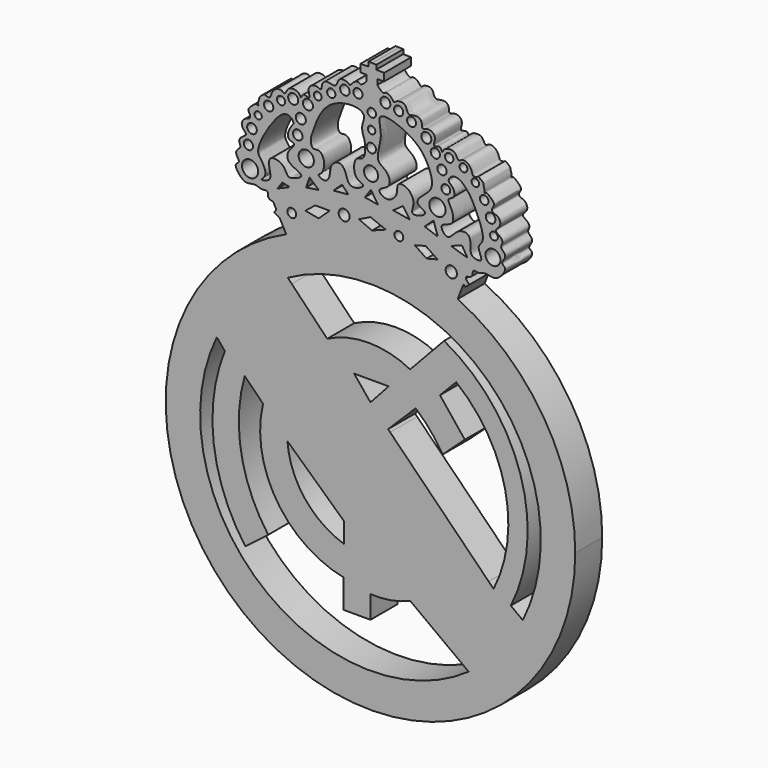
from build123d import *

# Parameters (mm, degrees)
F0_R     = 1.0683758696
F0_R_2   = 1.3224480768
F0_R_3   = 1.061195042
F0_R_4   = 1.3557211903
F0_R_5   = 1.9575942529
F0_R_6   = 1.107680664
F0_R_7   = 1.1599022783
F0_R_8   = 0.8679173579
F0_R_9   = 1.1268167876
F0_R_10  = 1.835311763
F0_R_11  = 1.1527903374
F0_R_12  = 1.2152979792
F0_R_13  = 0.9800578717
F0_R_14  = 1.2152997372
F0_R_15  = 1.2098720831
F0_R_16  = 0.9194478927
F0_R_17  = 1.0009302247
F0_R_18  = 1.1470695026
F0_R_19  = 1.0994945961
F0_R_20  = 1.6947146725
F0_R_21  = 1.1139353113
F0_R_22  = 1.9575949623
F0_R_23  = 1.0575460043
F0_R_24  = 1.1136042504
F0_R_25  = 0.8994497727
F0_R_26  = 1.0223036273
F0_R_27  = 1.0821448975
F0_R_28  = 1.2057884323
F0_R_29  = 1.1053048074
F0_R_30  = 1.1136020439
F0_R_31  = 1.2166516272
F0_R_32  = 1.0163055879
F0_R_33  = 0.9406639843
F0_R_34  = 1.8000215525
F0_R_35  = 0.9458968177
F0_R_36  = 1.164695248
F0_R_37  = 1.0339537474
F0_R_38  = 0.9068367551
F1_DEPTH = 8.128


with BuildPart() as f1:
    # F0 (on Front) → F1 (new body)
    with BuildSketch(Plane.XZ):
        with BuildLine():
            ThreePointArc((-20.2957642597, 43.7757468481), (-26.7530704289, -42.6075920216), (49.319722353, -1.1744140647))
            ThreePointArc((49.319722353, -1.1744140647), (41.6413507607, 25.2534674206), (20.9970600799, 43.4524666349))
            ThreePointArc((20.9970600799, 43.4524666349), (0.3861107107, 48.1437968872), (-20.2957642597, 43.7757468481))
        make_face()
        with BuildLine():
            ThreePointArc((-19.9248884828, 34.6796681541), (20.7993700046, 34.1795475269), (41.0184884267, -1.1744140647))
            ThreePointArc((41.0184884267, -1.1744140647), (39.9191785802, -10.607100548), (36.680172818, -19.5341884328))
            ThreePointArc((36.680172818, -19.5341884328), (34.5426007298, -23.2951086205), (32.0208296632, -26.8099920861))
            ThreePointArc((32.0208296632, -26.8099920861), (28.11116415, -31.0454509222), (23.6463884011, -34.6910473741))
            ThreePointArc((23.6463884011, -34.6910473741), (-26.4579316914, -32.5191782754), (-37.0108219701, 16.5093482585))
            ThreePointArc((-37.0108219701, 16.5093482585), (-29.8824181162, 26.9246514062), (-19.9248884828, 34.6796681541))
        make_face(mode=Mode.SUBTRACT)
        with BuildLine():
            ThreePointArc((-20.2957642597, 43.7757468481), (0.3861107107, 48.1437968872), (20.9970600799, 43.4524666349))
            Line((20.9970600799, 43.4524666349), (22.4078925888, 47.0877994707))
            Line((22.4078925888, 47.0877994707), (21.7419918627, 47.9761324823))
            Line((21.7419918627, 47.9761324823), (22.7174321972, 48.7374767771))
            Line((22.7174321972, 48.7374767771), (22.9382957615, 48.4545046309))
            Line((22.9382957615, 48.4545046309), (23.1258919107, 48.9378890417))
            Line((23.1258919107, 48.9378890417), (23.3868695796, 49.6103577316))
            ThreePointArc((23.3868695796, 49.6103577316), (-0.0129053369, 54.7778177099), (-23.4126802534, 49.6103577316))
            Line((-23.4126802534, 49.6103577316), (-22.670956452, 48.2219116608))
            Line((-22.670956452, 48.2219116608), (-22.3344378173, 48.7198755145))
            Line((-22.3344378173, 48.7198755145), (-21.2338831723, 47.9761324823))
            Line((-21.2338831723, 47.9761324823), (-21.8542222565, 46.6930522898))
            Line((-21.8542222565, 46.6930522898), (-20.2957642597, 43.7757468481))
        make_face()
        with Locations((-18.9575776458, 48.7157329917)):
            Circle(F0_R, mode=Mode.SUBTRACT)
        Polygon((-12.4819371849, 49.6610552073), (-15.7055351883, 50.2721779048), (-13.2815465331, 52.1641336381), (-9.8130097613, 52.1641336381), align=None, mode=Mode.SUBTRACT)
        with Locations((-6.3367942348, 52.3875318468)):
            Circle(F0_R_2, mode=Mode.SUBTRACT)
        with Locations((6.8356036209, 52.2115007043)):
            Circle(F0_R_3, mode=Mode.SUBTRACT)
        Polygon((13.5123794898, 49.60616678), (10.6638669968, 51.5121184289), (13.2989436388, 52.2064417601), (16.1520782858, 50.2721779048), align=None, mode=Mode.SUBTRACT)
        with Locations((19.4681342691, 48.7157329917)):
            Circle(F0_R_4, mode=Mode.SUBTRACT)
        Polygon((0.3738308442, 51.2814745307), (-2.7873946819, 52.6461452246), (0, 54.00453517), (3.6851887126, 52.5483526289), align=None, mode=Mode.SUBTRACT)
        Polygon((21.7419918627, 47.9761324823), (22.4078925888, 47.0877994707), (22.9382957615, 48.4545046309), (22.7174321972, 48.7374767771), align=None)
        Polygon((22.9382957615, 48.4545046309), (22.4078925888, 47.0877994707), (22.7706250654, 46.6039026665), (23.7724204733, 47.3858174504), align=None)
        Polygon((-23.1732297689, 47.478672117), (-21.8542222565, 46.6930522898), (-22.670956452, 48.2219116608), align=None)
        Polygon((-22.670956452, 48.2219116608), (-21.8542222565, 46.6930522898), (-21.2338831723, 47.9761324823), (-22.3344378173, 48.7198755145), align=None)
        with BuildLine():
            Line((23.3868695796, 49.6103577316), (23.1258919107, 48.9378890417))
            Line((23.1258919107, 48.9378890417), (23.2789174175, 48.9493995758))
            add(Edge.make_bspline(
                [(23.2789174175, 48.9493995758), (23.8045427052, 49.0629136799), (24.8092339264, 49.279886924), (24.4157559538, 51.0934438207), (26.2183794565, 50.4041142918), (27.6327581722, 51.3754215784), (29.9448005296, 50.3435666943), (31.7201053906, 51.8862627479), (32.9193195444, 53.8813689292), (31.0873186171, 54.4269995532), (33.2300556875, 56.4581653238), (31.070484681, 57.6589677895), (31.8964490255, 58.7152164835), (31.6499698111, 59.9157551046), (29.8073978478, 60.7988407991), (30.6381868366, 61.5661279682), (31.534954791, 62.5865176501), (30.8772266471, 64.3032957872), (29.1064834057, 64.5096965012), (29.3754610269, 65.6996851963), (30.0735607059, 66.360642796), (28.9648355826, 67.5852803425), (27.8109170759, 68.4437559256), (27.7529236519, 68.0695118832), (27.5289528704, 68.1088414973), (27.3592913794, 68.0444086011), (27.5220720265, 68.6286517126), (27.467739765, 68.7731780936), (27.3708493371, 69.177721937), (27.2776295023, 69.3402711501), (27.2070942878, 70.0047466896), (27.0466783339, 70.2233673686), (26.7140514038, 70.5311907911), (26.6226362961, 70.5754774317), (26.3152787444, 70.8061749721), (26.0183897996, 71.0629481176), (25.9673493613, 71.0566225559), (25.954052735, 71.0549746737)],
                knots=[0, 0, 0, 0, 0.0367596378, 0.0702631441, 0.1062364844, 0.1464798319, 0.1927377199, 0.2399274226, 0.2825691585, 0.3144049608, 0.3581342468, 0.3988697507, 0.4301327338, 0.4633110208, 0.5034318719, 0.5306531068, 0.5664882902, 0.6053111821, 0.6430986868, 0.6726782187, 0.7004173063, 0.7394058872, 0.7742007101, 0.7874326809, 0.8014663487, 0.8112183948, 0.8332574528, 0.8473781346, 0.8665336416, 0.8812017072, 0.9059133932, 0.9234188493, 0.9436516777, 0.9539570959, 0.9735307783, 0.9931044607, 1, 1, 1, 1], degree=3))
            Line((25.954052735, 71.0549746737), (25.6888473403, 70.8866474778))
            add(Edge.make_bspline(
                [(25.6888473403, 70.8866474778), (25.6357248773, 70.8637826776), (25.488485549, 70.800408398), (24.5935037854, 70.584130696), (24.4419882006, 71.9007209042), (23.4413899151, 73.2745374456), (21.9472071127, 73.4698679178), (21.1034992874, 72.5028315482), (20.5524212691, 74.5485966135), (18.7920804323, 74.6677849165), (17.608206438, 74.2229125628), (17.2740011335, 72.9810923247), (16.9427117453, 74.8245133954), (14.64239008, 73.4138151801), (16.1913846949, 76.3712800618), (13.7609583187, 77.5255259433), (12.2836642144, 76.3447083169), (12.5622883834, 78.5127327702), (10.931556028, 79.2897816454), (8.7589241786, 78.2654122162), (8.6844883666, 81.0909447062), (6.1587658891, 80.78124473), (5.6770664332, 79.9283311522), (5.0427301349, 81.2373697339), (3.5710222385, 81.8165532977), (3.1183810093, 80.9101475652), (1.7889049763, 82.2960011314), (1.7165623127, 82.6272132552)],
                knots=[0, 0, 0, 0, 0.0164149194, 0.0454971695, 0.0822824054, 0.1278334372, 0.168706337, 0.199897269, 0.2431105971, 0.2876152749, 0.3273043575, 0.3559156791, 0.3909861163, 0.4323984729, 0.4811659561, 0.5317529085, 0.5699959643, 0.6117421148, 0.6556097684, 0.7023397782, 0.7505060509, 0.8001208735, 0.8279708533, 0.8653993579, 0.9068552669, 0.9343437602, 0.9823599488, 0.9823599488, 0.9823599488, 0.9823599488], degree=3))
            add(Edge.make_bspline(
                [(1.7165623127, 82.6272132552), (1.7081865823, 82.6655605226), (1.7101742735, 82.6965338384), (1.7192593637, 82.7224570967)],
                knots=[0.9823599488, 0.9823599488, 0.9823599488, 0.9823599488, 0.9879191947, 0.9879191947, 0.9879191947, 0.9879191947], degree=3))
            Line((1.7192593637, 82.7224570967), (1.7508812065, 83.8391529728))
            Line((1.7508812065, 83.8391529728), (3.2405081183, 83.7969707198))
            Line((3.2405081183, 83.7969707198), (3.2932981266, 85.6612006146))
            Line((3.2932981266, 85.6612006146), (1.3878742446, 85.7151571265))
            Line((1.3878742446, 85.7151571265), (1.417950122, 86.7772586766))
            Line((1.417950122, 86.7772586766), (0.4643072607, 86.8042632937))
            Line((0.4643072607, 86.8042632937), (-0.4897178733, 86.8042632937))
            Line((-0.4897178733, 86.8042632937), (-0.4897178733, 85.7417359948))
            Line((-0.4897178733, 85.7417359948), (-2.3959055543, 85.7417359948))
            Line((-2.3959055543, 85.7417359948), (-2.3959055543, 83.8767588139))
            Line((-2.3959055543, 83.8767588139), (-0.9056815179, 83.8767588139))
            Line((-0.9056815179, 83.8767588139), (-0.9056815179, 82.7596153044))
            add(Edge.make_bspline(
                [(-0.9056815179, 82.6643332839), (-0.8962236866, 82.7024281025), (-0.8973338513, 82.733445271), (-0.9056815179, 82.7596153044)],
                knots=[0.9823599488, 0.9823599488, 0.9823599488, 0.9823599488, 0.9879191947, 0.9879191947, 0.9879191947, 0.9879191947], degree=3))
            add(Edge.make_bspline(
                [(-25.2006892115, 71.6070309281), (-25.1482352449, 71.5826716063), (-25.0028487858, 71.5151549668), (-24.114347589, 71.2736305894), (-23.9256253385, 72.5854044499), (-22.8865407625, 73.9303475946), (-21.3874276505, 74.0833054891), (-20.5714308072, 73.0927746282), (-19.9626662161, 75.1221211627), (-18.1996569965, 75.1914335336), (-17.0288499224, 74.7132287233), (-16.729929472, 73.4624460668), (-16.3465929881, 75.2957510176), (-14.0871242458, 73.8205052005), (-15.5517842427, 76.8206308539), (-13.0896596634, 77.905618633), (-11.6463817039, 76.6834578952), (-11.8635261711, 78.8585003633), (-10.2114521106, 79.5890784003), (-8.0686866044, 78.5036209549), (-7.9143011499, 81.3259142908), (-5.3983570773, 80.9448453576), (-4.9409931911, 80.0786385621), (-4.2698574469, 81.369197108), (-2.782344897, 81.9064904606), (-2.3555417419, 80.987635466), (-0.9873704782, 82.3353016051), (-0.9056815179, 82.6643332839)],
                knots=[0, 0, 0, 0, 0.0164149194, 0.0454971695, 0.0822824054, 0.1278334372, 0.168706337, 0.199897269, 0.2431105971, 0.2876152749, 0.3273043575, 0.3559156791, 0.3909861163, 0.4323984729, 0.4811659561, 0.5317529085, 0.5699959643, 0.6117421148, 0.6556097684, 0.7023397782, 0.7505060509, 0.8001208735, 0.8279708533, 0.8653993579, 0.9068552669, 0.9343437602, 0.9823599488, 0.9823599488, 0.9823599488, 0.9823599488], degree=3))
            Line((-25.2006892115, 71.6070309281), (-25.4610236734, 71.782797575))
            add(Edge.make_bspline(
                [(-23.4126802534, 49.6103577316), (-23.9348817978, 49.7387046905), (-24.9330288042, 49.9840297652), (-24.4883739893, 51.7857221995), (-26.3097873391, 51.1476939075), (-27.6961055154, 52.1586473735), (-30.0364291146, 51.1926505747), (-31.7673550958, 52.7849802237), (-32.9096152935, 54.8132319097), (-31.0629038291, 55.3067873193), (-33.147288177, 57.3977914873), (-30.9545926072, 58.5369840225), (-31.750327837, 59.6161892143), (-31.4699649623, 60.8092699502), (-29.6031347008, 61.6398459904), (-30.4118719811, 62.4303420089), (-31.2793974746, 63.4757067228), (-30.5733377898, 65.1731793159), (-28.7974617009, 65.329374702), (-29.032647747, 66.5265002505), (-29.7117586481, 67.2069534042), (-28.568813218, 68.3997166931), (-27.3910570868, 69.2251854945), (-27.3436802451, 68.849449849), (-27.1186859442, 68.8824239912), (-26.9509162719, 68.813214478), (-27.0970941193, 69.4018311524), (-27.0386926676, 69.5447616945), (-26.9303900528, 69.9464008607), (-26.8326064558, 70.1062462624), (-26.7432908725, 70.7684589817), (-26.5767509237, 70.9824513297), (-26.2355440315, 71.2807360775), (-26.1429119765, 71.3224173784), (-25.8291474611, 71.5443224226), (-25.5251092623, 71.7925889478), (-25.4742683269, 71.784821171), (-25.4610236734, 71.782797575)],
                knots=[0, 0, 0, 0, 0.0367596378, 0.0702631441, 0.1062364844, 0.1464798319, 0.1927377199, 0.2399274226, 0.2825691585, 0.3144049608, 0.3581342468, 0.3988697507, 0.4301327338, 0.4633110208, 0.5034318719, 0.5306531068, 0.5664882902, 0.6053111821, 0.6430986868, 0.6726782187, 0.7004173063, 0.7394058872, 0.7742007101, 0.7874326809, 0.8014663487, 0.8112183948, 0.8332574528, 0.8473781346, 0.8665336416, 0.8812017072, 0.9059133932, 0.9234188493, 0.9436516777, 0.9539570959, 0.9735307783, 0.9931044607, 1, 1, 1, 1], degree=3))
            ThreePointArc((-23.4126802534, 49.6103577316), (-0.0129053369, 54.7778177099), (23.3868695796, 49.6103577316))
        make_face()
        with Locations((-28.9970748127, 54.8375062644)):
            Circle(F0_R_5, mode=Mode.SUBTRACT)
        with Locations((-29.3985512108, 59.7699061036)):
            Circle(F0_R_6, mode=Mode.SUBTRACT)
        with Locations((-28.538249433, 63.4978860617)):
            Circle(F0_R_7, mode=Mode.SUBTRACT)
        with Locations((-27.0470567048, 66.7670294642)):
            Circle(F0_R_8, mode=Mode.SUBTRACT)
        Polygon((-19.4668657923, 54.0335979708), (-22.4014241248, 52.772782743), (-21.2278922101, 54.4457218718), align=None, mode=Mode.SUBTRACT)
        Polygon((-12.4819371849, 55.6978099048), (-15.5190080404, 55.2389807999), (-14.6677671535, 57.6475750897), align=None, mode=Mode.SUBTRACT)
        with BuildLine():
            add(Edge.make_bspline(
                [(-26.1867530644, 53.461022675), (-26.0700255164, 53.3139917769), (-23.450353297, 53.7440990357), (-24.6338912814, 56.7915139748), (-24.3458629055, 59.3469961682), (-20.6913970967, 58.5058255609), (-20.1354595251, 55.8980351253), (-18.4809015446, 56.1366282478), (-15.2040332419, 57.5913001298), (-20.4891966489, 58.8929541214), (-19.8648772056, 61.563495531), (-19.1015718947, 62.2838680145), (-17.847118071, 63.7502390895), (-20.6063097548, 63.9739312922), (-19.1913242191, 67.1968144045), (-18.1494070597, 67.9402499803), (-20.3420195688, 70.3132372041), (-24.3424117129, 65.8824861529), (-27.9150043781, 59.0946157381), (-25.9700124435, 57.4134072109), (-24.7668733819, 54.4427449848), (-26.2813682359, 53.5802006573), (-26.1867530644, 53.461022675)],
                knots=[0, 0, 0, 0, 0.0449166117, 0.1000070802, 0.1460353523, 0.2012629416, 0.2503061371, 0.2904357584, 0.3376925491, 0.3997258926, 0.4469826999, 0.483390514, 0.5198578353, 0.5610980195, 0.6159110408, 0.6504277406, 0.695397194, 0.7709643388, 0.8598418568, 0.9083645914, 0.9635922026, 1, 1, 1, 1], degree=3))
        make_face(mode=Mode.SUBTRACT)
        with Locations((-24.523505941, 69.5773512125)):
            Circle(F0_R_9, mode=Mode.SUBTRACT)
        with Locations((-15.4616553336, 61.4331588149)):
            Circle(F0_R_10, mode=Mode.SUBTRACT)
        with Locations((-17.5263788551, 65.7346695662)):
            Circle(F0_R_11, mode=Mode.SUBTRACT)
        with Locations((-16.7807843536, 69.4052875042)):
            Circle(F0_R_12, mode=Mode.SUBTRACT)
        Polygon((-5.3327149004, 57.0591899426), (-8.9233582839, 56.7301735282), (-6.8627531431, 58.6779000672), align=None, mode=Mode.SUBTRACT)
        with BuildLine():
            add(Edge.make_bspline(
                [(-12.5366291031, 58.9096024632), (-12.4879345928, 58.6703611028), (-10.678649533, 57.5288357153), (-9.6080186367, 59.7330639129), (-9.8117857952, 61.9738597997), (-7.614133384, 63.5355362792), (-5.9664267909, 62.0246407743), (-5.6297828622, 59.6143133946), (-3.9815932773, 58.5922808801), (-0.7739082198, 60.2181353241), (-3.5150874648, 60.8551526609), (-4.123914838, 63.0680378944), (-3.6573906818, 65.7108582279), (-1.6259035767, 65.5147551551), (-1.1797141411, 67.6774064565), (-1.358603092, 69.9513858441), (-1.9630170989, 71.0746491408), (-2.1277777453, 73.1129972145), (-1.1337764742, 74.8618639336), (-2.9473521069, 76.7400248826), (-10.8308748764, 75.7390551956), (-13.6795370679, 68.4833234803), (-14.6394920402, 65.5014217987), (-13.9058309949, 63.6762809321), (-12.0185898686, 64.5542744621), (-10.7013162172, 61.6460691508), (-11.7826275258, 59.1472629563), (-12.5647586154, 59.0478057787), (-12.5366291031, 58.9096024632)],
                knots=[0, 0, 0, 0, 0.0341118954, 0.069801361, 0.1091195807, 0.1465369056, 0.1814554513, 0.2212845885, 0.2553964715, 0.2951538114, 0.3281378862, 0.3675117868, 0.4067054378, 0.4382538691, 0.4739930011, 0.5134592322, 0.5427773319, 0.5791202723, 0.6137065342, 0.6492625205, 0.7179771774, 0.7889852302, 0.8349211538, 0.8652615202, 0.8964310585, 0.9385187149, 0.9802944732, 1, 1, 1, 1], degree=3))
        make_face(mode=Mode.SUBTRACT)
        with Locations((-21.5411223471, 71.6994330287)):
            Circle(F0_R_13, mode=Mode.SUBTRACT)
        with Locations((-18.6160970479, 73.0185583234)):
            Circle(F0_R_14, mode=Mode.SUBTRACT)
        with Locations((-15.0601807982, 72.9612037539)):
            Circle(F0_R_15, mode=Mode.SUBTRACT)
        with Locations((-12.7086890861, 75.542114675)):
            Circle(F0_R_16, mode=Mode.SUBTRACT)
        with Locations((-9.4395400956, 77.2084668279)):
            Circle(F0_R_17, mode=Mode.SUBTRACT)
        with Locations((-6.1703915708, 78.9259672165)):
            Circle(F0_R_18, mode=Mode.SUBTRACT)
        with Locations((-3.0159503222, 79.2700871825)):
            Circle(F0_R_19, mode=Mode.SUBTRACT)
        Polygon((1.8435589736, 57.2302155197), (-1.3359672157, 57.7711500227), (0.0825057295, 59.8329288324), align=None, mode=Mode.SUBTRACT)
        Polygon((9.5174485863, 56.543322415), (5.4631428793, 57.2302155197), (7.8302603215, 58.9145086706), align=None, mode=Mode.SUBTRACT)
        with Locations((0.1311860583, 63.2718187314)):
            Circle(F0_R_20, mode=Mode.SUBTRACT)
        with Locations((0.2082537934, 68.7160600219)):
            Circle(F0_R_21, mode=Mode.SUBTRACT)
        with BuildLine():
            add(Edge.make_bspline(
                [(2.1458626725, 60.458149761), (2.0069217344, 59.9643896494), (3.912279356, 58.3548488245), (6.8159805893, 60.5468467436), (6.0779595585, 63.5462360116), (8.9696849499, 63.4285025477), (10.970833157, 60.7163015876), (9.3969122788, 57.6750737434), (11.9701936263, 58.0511437621), (14.0742286697, 59.3702320818), (10.4470448131, 60.4212908781), (12.3666828393, 62.6028833357), (14.0576158987, 63.7846044241), (15.3568584789, 65.9655227598), (13.3475502659, 71.2471391331), (9.8814028997, 74.4469272708), (4.0959791229, 76.8148254346), (1.516029336, 75.9866641158), (3.2634523607, 71.9842813483), (0.7309991931, 66.2742838232), (4.2190026267, 65.2907374758), (5.2531009999, 61.5325627456), (2.3034527186, 61.0181839728), (2.1458626725, 60.458149761)],
                knots=[0, 0, 0, 0, 0.0406946255, 0.089441357, 0.132603126, 0.1720225356, 0.221739254, 0.2651294075, 0.3033811867, 0.3389350037, 0.381264122, 0.4211935774, 0.4633842826, 0.5051012599, 0.5691684111, 0.632735268, 0.7022351323, 0.7393145408, 0.7938988414, 0.8593203877, 0.9062083614, 0.9538432085, 1, 1, 1, 1], degree=3))
        make_face(mode=Mode.SUBTRACT)
        Polygon((13.3838821203, 56.1376996338), (13.0652310327, 56.2742650509), (15.2047416195, 58.2316890359), (16.2062142044, 55.1362261176), align=None, mode=Mode.SUBTRACT)
        Polygon((23.3698040247, 52.9588982463), (19.3739142269, 54.2049258947), (22.0378413796, 55.1501922309), align=None, mode=Mode.SUBTRACT)
        with Locations((16.1401107907, 61.318449676)):
            Circle(F0_R_22, mode=Mode.SUBTRACT)
        with Locations((18.1474834681, 65.7920241356)):
            Circle(F0_R_23, mode=Mode.SUBTRACT)
        with Locations((17.2298271209, 69.6347057819)):
            Circle(F0_R_24, mode=Mode.SUBTRACT)
        with BuildLine():
            add(Edge.make_bspline(
                [(19.9827942997, 69.1185221076), (19.3458417405, 68.9338103413), (18.2986207687, 67.7038439143), (20.0052096118, 66.973881324), (20.5630692143, 64.5397284052), (18.2104500427, 64.067255816), (19.7116020239, 62.1661450712), (20.4645072662, 58.4005508549), (16.0805711411, 58.4099865587), (18.6653657248, 54.5980982009), (20.6506912423, 58.3236523287), (24.3588086782, 58.3898419463), (23.9720968949, 54.7816562755), (24.3880884021, 53.3826557569), (27.6379801048, 53.0265163656), (25.3098901899, 56.2728262774), (27.8936128595, 57.6203167882), (25.6304850903, 63.569360142), (23.1483218413, 68.0899994246), (20.8068853511, 69.3575027216), (19.9827942997, 69.1185221076)],
                knots=[0, 0, 0, 0, 0.0457780123, 0.0876202368, 0.136836207, 0.1799734193, 0.2281238383, 0.2898227713, 0.3471562525, 0.3999028796, 0.4625431353, 0.5194837961, 0.5796741066, 0.6213580581, 0.6694963296, 0.7246522576, 0.7740785297, 0.8576854396, 0.9407722761, 1, 1, 1, 1], degree=3))
        make_face(mode=Mode.SUBTRACT)
        with Locations((0.2626737017, 72.5604069608)):
            Circle(F0_R_25, mode=Mode.SUBTRACT)
        with Locations((0.3146240277, 76.2302969496)):
            Circle(F0_R_26, mode=Mode.SUBTRACT)
        with Locations((9.8885819316, 77.4347782135)):
            Circle(F0_R_27, mode=Mode.SUBTRACT)
        with Locations((3.5796996672, 79.4421508908)):
            Circle(F0_R_28, mode=Mode.SUBTRACT)
        with Locations((6.7914938554, 78.7539109588)):
            Circle(F0_R_29, mode=Mode.SUBTRACT)
        with Locations((15.623928979, 72.6170837879)):
            Circle(F0_R_30, mode=Mode.SUBTRACT)
        with Locations((13.44449725, 75.197994709)):
            Circle(F0_R_31, mode=Mode.SUBTRACT)
        with Locations((18.9504306763, 72.7317929268)):
            Circle(F0_R_32, mode=Mode.SUBTRACT)
        with Locations((22.3916396499, 71.7567801476)):
            Circle(F0_R_33, mode=Mode.SUBTRACT)
        with Locations((29.5034702867, 55.0669208169)):
            Circle(F0_R_34, mode=Mode.SUBTRACT)
        with Locations((29.7328848392, 59.65520069)):
            Circle(F0_R_35, mode=Mode.SUBTRACT)
        with Locations((28.9299357682, 63.2111132145)):
            Circle(F0_R_36, mode=Mode.SUBTRACT)
        with Locations((27.3813921958, 66.5376186371)):
            Circle(F0_R_37, mode=Mode.SUBTRACT)
        with Locations((25.2593141049, 69.5199966431)):
            Circle(F0_R_38, mode=Mode.SUBTRACT)
        with BuildLine():
            Line((-0.9056815179, 82.7596153044), (-0.9056815179, 82.6643332839))
            add(Edge.make_bspline(
                [(-0.9056815179, 82.6643332839), (-0.8962236866, 82.7024281025), (-0.8973338513, 82.733445271), (-0.9056815179, 82.7596153044)],
                knots=[0.9823599488, 0.9823599488, 0.9823599488, 0.9823599488, 0.9879191947, 0.9879191947, 0.9879191947, 0.9879191947], degree=3))
        make_face()
        with BuildLine():
            add(Edge.make_bspline(
                [(1.7165623127, 82.6272132552), (1.7081865823, 82.6655605226), (1.7101742735, 82.6965338384), (1.7192593637, 82.7224570967)],
                knots=[0.9823599488, 0.9823599488, 0.9823599488, 0.9823599488, 0.9879191947, 0.9879191947, 0.9879191947, 0.9879191947], degree=3))
            Line((1.7165623127, 82.6272132552), (1.7192593637, 82.7224570967))
        make_face()
        with BuildLine():
            ThreePointArc((23.6463884011, -34.6910473741), (28.11116415, -31.0454509222), (32.0208296632, -26.8099920861))
            Line((32.0208296632, -26.8099920861), (30.599538351, -25.4685488352))
            Line((30.599538351, -25.4685488352), (30.0946310163, -24.0084268153))
            Line((30.0946310163, -24.0084268153), (26.394451037, -20.3822515905))
            ThreePointArc((26.394451037, -20.3822515905), (28.1424790475, -17.8611296107), (29.6499365193, -15.1891958665))
            Line((29.6499365193, -15.1891958665), (28.4521410676, -13.9818932609))
            Line((28.4521410676, -13.9818932609), (4.7338204458, 9.9246846512))
            Line((4.7338204458, 9.9246846512), (4.2433136952, 10.4190846569))
            Line((4.2433136952, 10.4190846569), (0, 6.2091858126))
            Line((0, 6.2091858126), (-11.4871617407, 17.7875235677))
            ThreePointArc((-11.4871617407, 17.7875235677), (-18.1134370307, 10.0276628712), (-20.002600758, 0))
            Line((-20.002600758, 0), (-6.348460447, -12.5576164573))
            Line((-6.348460447, -12.5576164573), (-6.348460447, 0.9403915028))
            Line((-6.348460447, 0.9403915028), (8.1569859758, 0.9403915028))
            Line((8.1569859758, 0.9403915028), (8.1569859758, -3.6128875799))
            Line((8.1569859758, -3.6128875799), (0, -3.6128875799))
            Line((0, -3.6128875799), (0, -8.8816815987))
            Line((0, -8.8816815987), (7.8967986628, -8.8816815987))
            Line((7.8967986628, -8.8816815987), (7.8967986628, -13.1747731939))
            Line((7.8967986628, -13.1747731939), (0, -13.1747731939))
            Line((0, -13.1747731939), (0, -19.4192696363))
            ThreePointArc((0, -19.4192696363), (8.5543119041, -17.8413652211), (15.7674662769, -12.9796331748))
            Line((15.7674662769, -12.9796331748), (19.0078616142, -16.4178367704))
            ThreePointArc((19.0078616142, -16.4178367704), (14.8657130556, -21.031163843), (9.5723907395, -24.2593088549))
            Line((9.5723907395, -24.2593088549), (10.771380719, -25.1480080187))
            Line((10.771380719, -25.1480080187), (23.6463884011, -34.6910473741))
        make_face()
        with BuildLine():
            Line((-10.4292877058, 24.8188501668), (-18.9524920696, 33.6698716951))
            ThreePointArc((-18.9524920696, 33.6698716951), (-28.5333951254, 25.1924896302), (-35.0744649727, 14.1982131515))
            ThreePointArc((-35.0744649727, 14.1982131515), (-37.7488535963, -6.3321067435), (-30.1644690335, -25.5966726691))
            Line((-30.1644690335, -25.5966726691), (-24.6336341233, -21.3751560736))
            ThreePointArc((-24.6336341233, -21.3751560736), (-31.1376249668, -6.1067397796), (-30.2903471198, 10.4675943931))
            ThreePointArc((-30.2903471198, 10.4675943931), (-26.223122205, 19.6966301526), (-19.8083602278, 27.4791906781))
            Line((-19.8083602278, 27.4791906781), (-14.7272188603, 21.4146043367))
            ThreePointArc((-14.7272188603, 21.4146043367), (-21.812918415, 14.8086048918), (-25.8690593604, 6.0112139446))
            ThreePointArc((-25.8690593604, 6.0112139446), (-22.6572305032, -13.3676142825), (-6.4720492041, -24.4984154387))
            Line((-6.4720492041, -24.4984154387), (-6.4720492041, -31.3825414314))
            Line((-6.4720492041, -31.3825414314), (0, -31.3825414314))
            Line((0, -31.3825414314), (0, -25.9244870394))
            ThreePointArc((0, -25.9244870394), (4.8822134498, -25.6438644506), (9.5723907395, -24.2593088549))
            ThreePointArc((9.5723907395, -24.2593088549), (14.8657130556, -21.031163843), (19.0078616142, -16.4178367704))
            Line((19.0078616142, -16.4178367704), (15.7674662769, -12.9796331748))
            ThreePointArc((15.7674662769, -12.9796331748), (8.5543119041, -17.8413652211), (0, -19.4192696363))
            Line((0, -19.4192696363), (0, -13.1747731939))
            Line((0, -13.1747731939), (7.8967986628, -13.1747731939))
            Line((7.8967986628, -13.1747731939), (7.8967986628, -8.8816815987))
            Line((7.8967986628, -8.8816815987), (0, -8.8816815987))
            Line((0, -8.8816815987), (0, -3.6128875799))
            Line((0, -3.6128875799), (8.1569859758, -3.6128875799))
            Line((8.1569859758, -3.6128875799), (8.1569859758, 0.9403915028))
            Line((8.1569859758, 0.9403915028), (-6.348460447, 0.9403915028))
            Line((-6.348460447, 0.9403915028), (-6.348460447, -12.5576164573))
            Line((-6.348460447, -12.5576164573), (-6.348460447, -17.3912460388))
            ThreePointArc((-6.348460447, -17.3912460388), (-15.8251341161, -10.7758683372), (-20.002600758, 0))
            ThreePointArc((-20.002600758, 0), (-18.1134370307, 10.0276628712), (-11.4871617407, 17.7875235677))
            Line((-11.4871617407, 17.7875235677), (0, 6.2091858126))
            Line((0, 6.2091858126), (4.2433136952, 10.4190846569))
            Line((4.2433136952, 10.4190846569), (10.886497099, 17.0099549395))
            ThreePointArc((10.886497099, 17.0099549395), (14.4467195495, 13.4305665686), (17.3936374485, 9.3314349651))
            Line((17.3936374485, 9.3314349651), (22.7274782956, 14.2099466175))
            Line((22.7274782956, 14.2099466175), (16.7431682348, 21.6903351247))
            Line((16.7431682348, 21.6903351247), (20.6459797919, 25.7232394069))
            ThreePointArc((20.6459797919, 25.7232394069), (32.4301352048, 6.8696740346), (29.6499365193, -15.1891958665))
            ThreePointArc((29.6499365193, -15.1891958665), (28.1424790475, -17.8611296107), (26.394451037, -20.3822515905))
            Line((26.394451037, -20.3822515905), (30.0946310163, -24.0084268153))
            Line((30.0946310163, -24.0084268153), (30.0946310163, -23.3423952013))
            ThreePointArc((30.0946310163, -23.3423952013), (32.0819447331, -20.4507076246), (33.7965458841, -17.3894308087))
            ThreePointArc((33.7965458841, -17.3894308087), (36.0856980511, 11.3316825998), (17.7244158423, 33.5354185176))
            Line((17.7244158423, 33.5354185176), (9.5554055607, 24.8188501668))
            ThreePointArc((9.5554055607, 24.8188501668), (-0.4369410725, 27.2286114874), (-10.4292877058, 24.8188501668))
        make_face()
        Polygon((0, 14.7303231061), (-3.9359702794, 19.5437874645), (4.3842685409, 19.5437874645), align=None, mode=Mode.SUBTRACT)
        with BuildLine():
            ThreePointArc((-19.8083602278, 27.4791906781), (-26.223122205, 19.6966301526), (-30.2903471198, 10.4675943931))
            Line((-30.2903471198, 10.4675943931), (-25.8690593604, 6.0112139446))
            ThreePointArc((-25.8690593604, 6.0112139446), (-21.812918415, 14.8086048918), (-14.7272188603, 21.4146043367))
            Line((-14.7272188603, 21.4146043367), (-19.8083602278, 27.4791906781))
        make_face()
        with BuildLine():
            Line((-18.9524920696, 33.6698716951), (-19.9248884828, 34.6796681541))
            ThreePointArc((-19.9248884828, 34.6796681541), (-29.8824181162, 26.9246514062), (-37.0108219701, 16.5093482585))
            Line((-37.0108219701, 16.5093482585), (-35.0744649727, 14.1982131515))
            ThreePointArc((-35.0744649727, 14.1982131515), (-28.5333951254, 25.1924896302), (-18.9524920696, 33.6698716951))
        make_face()
        with BuildLine():
            ThreePointArc((32.0208296632, -26.8099920861), (34.5426007298, -23.2951086205), (36.680172818, -19.5341884328))
            Line((36.680172818, -19.5341884328), (33.7965458841, -17.3894308087))
            ThreePointArc((33.7965458841, -17.3894308087), (32.0819447331, -20.4507076246), (30.0946310163, -23.3423952013))
            Line((30.0946310163, -23.3423952013), (30.0946310163, -24.0084268153))
            Line((30.0946310163, -24.0084268153), (30.599538351, -25.4685488352))
            Line((30.599538351, -25.4685488352), (32.0208296632, -26.8099920861))
        make_face()
    extrude(amount=F1_DEPTH)


solid = f1.part
